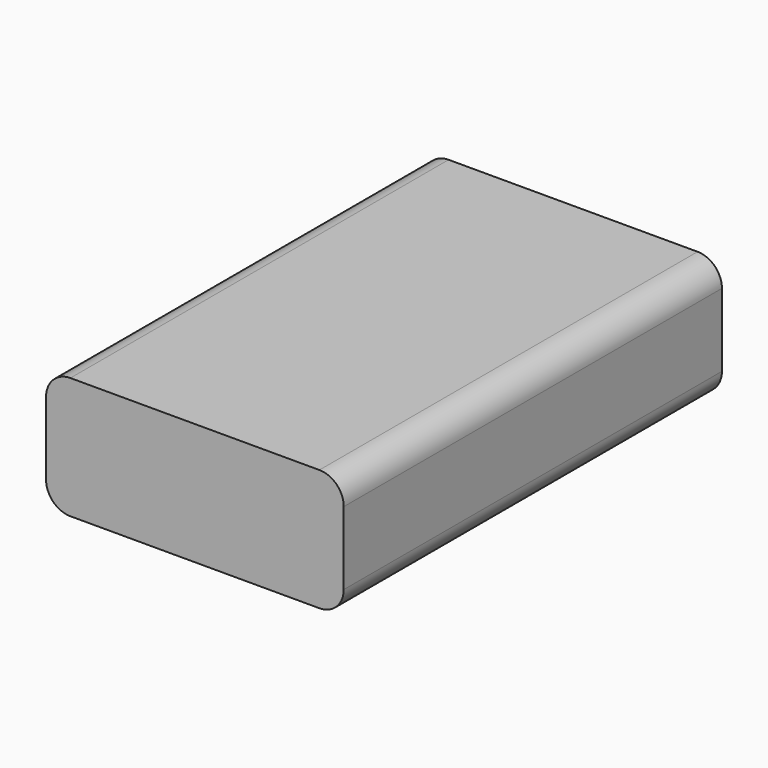
from build123d import *

# Parameters (mm, degrees)
F0_W          = 62.132306397
F0_H          = 98.6692346632
F1_DEPTH      = 25.4
F2_W          = 53.3400010318
F2_H          = 16.0215389915
F3_DEPTH      = 159.004
F3_DEPTH_BACK = 35.814
F4_R          = 5.08


with BuildPart() as f1:
    # F0 (on Top) → F1 (new body)
    with BuildSketch(Plane.XY):
        with Locations((1.5630759299, -9.1830771416)):
            Rectangle(F0_W, F0_H)
    extrude(amount=F1_DEPTH)

    # F2 (on Front) → F3 (cut, two sides)
    with BuildSketch(Plane.XZ) as f3_sk:
        with Locations((2.6376927271, 12.7976925578)):
            Rectangle(F2_W, F2_H)
    extrude(amount=-F3_DEPTH, mode=Mode.SUBTRACT)
    extrude(f3_sk.sketch, amount=F3_DEPTH_BACK, mode=Mode.SUBTRACT)

    # F4
    f4_edges = [f1.edges().sort_by_distance(p)[0] for p in [
        (32.629229, -9.183077, 25.4),
        (-29.503077, -9.183077, 25.4),
        (-29.503077, -9.183077, 0),
        (32.629229, -9.183077, 0),
    ]]
    fillet(f4_edges, radius=F4_R)


solid = f1.part
